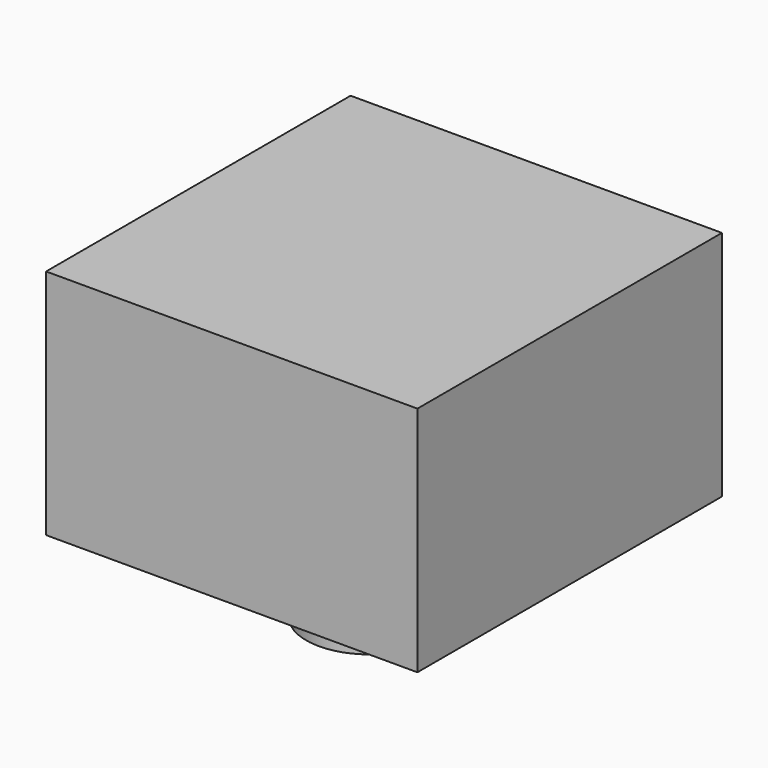
from build123d import *

# Parameters (mm, degrees)
F0_W     = 39.413793
F0_H     = 40.399138
F2_DEPTH = 10.16
F3_W     = 39.413793
F3_H     = 40.399138
F1_R     = 6.703568
F4_DEPTH = 24.638


with BuildPart() as f2:
    # F0 (on Top) → F2 (new body)
    with BuildSketch(Plane.XY):
        with Locations((1.77362, -0.295604)):
            Rectangle(F0_W, F0_H)
    extrude(amount=F2_DEPTH)

    # F3 (on face) + F1 (on face) → F4 (join)
    with BuildSketch(Plane.XY.offset(10.16)):
        with Locations((1.77362, -0.295604)):
            Rectangle(F3_W, F3_H)
    with BuildSketch(Plane.XY):
        Circle(F1_R)
    extrude(amount=-F4_DEPTH)


solid = f2.part
